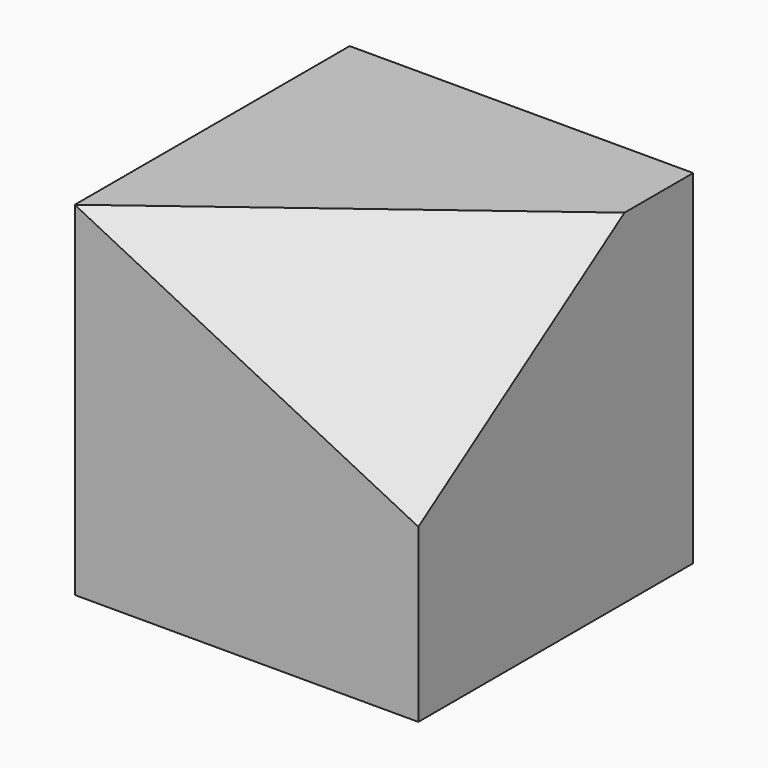
from build123d import *

# Parameters (mm, degrees)
F0_W     = 4
F0_H     = 4
F1_DEPTH = 4
F5_DEPTH = 25


with BuildPart() as f1:
    # F0 (on Top) → F1 (new body)
    with BuildSketch(Plane.XY):
        with Locations((2, 2)):
            Rectangle(F0_W, F0_H)
        with Locations((2, 2)):
            Rectangle(F0_W, F0_H)
    extrude(amount=F1_DEPTH)

    # F4 (on 3pt) → F5 (cut)
    with BuildSketch(Plane(origin=(1.1803278689, -1.5737704918, 2.3606557377), x_dir=(0.9232870715, 0.2130662473, -0.3195993709), z_dir=(0.3841106398, -0.5121475197, 0.7682212796))):
        Polygon((3.0539495442, 4.7149516679), (-1.2783974836, 2.2188007849), (3.0539495442, 1.1094003925), align=None)
    extrude(amount=F5_DEPTH, mode=Mode.SUBTRACT)


solid = f1.part
